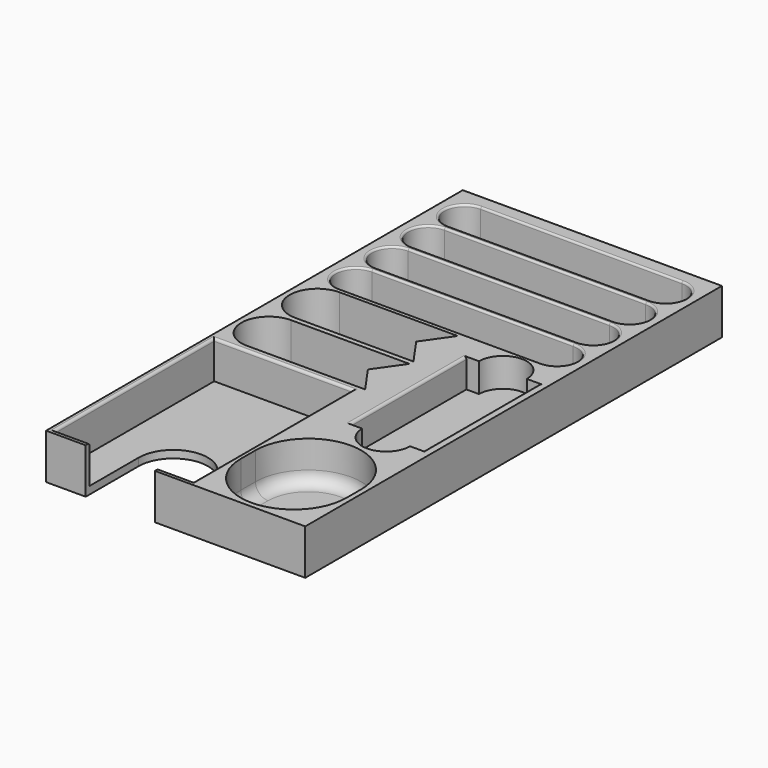
from build123d import *

# Parameters (mm, degrees)
SKETCH014_W            = 103
SKETCH014_H            = 207
PAD006_DEPTH           = 18
POCKET008_DEPTH        = 16
LINEARPATTERN_COUNT    = 4
LINEARPATTERN_PITCH    = 18
POCKET009_DEPTH        = 16
LINEARPATTERN001_COUNT = 2
LINEARPATTERN001_PITCH = 24
POCKET010_DEPTH        = 11.5
SKETCH019_W            = 55
SKETCH019_H            = 79
POCKET011_DEPTH        = 15
POCKET012_DEPTH        = 100
POCKET012_DEPTH_BACK   = 100
POCKET013_DEPTH        = 16
FILLET003_R            = 1
FILLET004_R            = 5
FILLET005_R            = 1
FILLET006_R            = 0.75


with BuildPart() as part:
    # Sketch014 → Pad006 (new body)
    with BuildSketch(Plane.XY):
        Rectangle(SKETCH014_W, SKETCH014_H)
    extrude(amount=PAD006_DEPTH)

    # Sketch015 (on Face6 of Pad006) → Pocket008 (cut)
    with BuildSketch(Plane(origin=(0, 90, 18), x_dir=(1, 0, 0), z_dir=(0, 0, 1))):
        with BuildLine():
            ThreePointArc((-40, 8), (-48, 0), (-40, -8))
            Line((-40, -8), (40, -8))
            ThreePointArc((40, -8), (48, 0), (40, 8))
            Line((-40, 8), (40, 8))
        make_face()
    pocket008 = extrude(amount=-POCKET008_DEPTH, mode=Mode.SUBTRACT)

    # LinearPattern: Pocket008 ×4
    with Locations(*[(0, -i * LINEARPATTERN_PITCH, 0) for i in range(1, LINEARPATTERN_COUNT)]):
        add(pocket008, mode=Mode.SUBTRACT)

    # Sketch017 → Pocket009 (cut)
    with BuildSketch(Plane(origin=(-15, 15, 18), x_dir=(1, 0, 0), z_dir=(0, 0, 1))):
        with BuildLine():
            Line((-23.5, 11), (23.5, 11))
            Line((23.5, 11), (15.797717, 0))
            Line((15.797717, 0), (23.5, -11))
            Line((23.5, -11), (-23.5, -11))
            ThreePointArc((-23.5, 11), (-34.5, 0), (-23.5, -11))
        make_face()
    pocket009 = extrude(amount=-POCKET009_DEPTH, mode=Mode.SUBTRACT)

    # LinearPattern001: Pocket009 ×2
    with Locations(*[(0, -i * LINEARPATTERN001_PITCH, 0) for i in range(1, LINEARPATTERN001_COUNT)]):
        add(pocket009, mode=Mode.SUBTRACT)

    # Sketch018 (on Face5 of LinearPattern001) → Pocket010 (cut)
    with BuildSketch(Plane.XY.offset(18)):
        with BuildLine():
            Line((48.255785, 16.86923), (48.255785, -41.13077))
            Line((48.255785, -41.13077), (43.255785, -41.13077))
            ThreePointArc((24.255785, -41.13077), (33.755784, -50.63077), (43.255785, -41.13077))
            Line((24.255785, -41.13077), (19.255785, -41.13077))
            Line((19.255785, -41.13077), (19.255785, 16.86923))
            Line((24.255785, 16.86923), (19.255785, 16.86923))
            ThreePointArc((43.255785, 16.86923), (33.755785, 26.36923), (24.255785, 16.86923))
            Line((43.255785, 16.86923), (48.255785, 16.86923))
        make_face()
    extrude(amount=-POCKET010_DEPTH, mode=Mode.SUBTRACT)

    # Sketch019 (on Face5 of Pocket010) → Pocket011 (cut)
    with BuildSketch(Plane.XY.offset(18)):
        with Locations((-22, -62)):
            Rectangle(SKETCH019_W, SKETCH019_H)
    extrude(amount=-POCKET011_DEPTH, mode=Mode.SUBTRACT)

    # Sketch020 (on Face46 of Pocket011) → Pocket012 (cut, two sides)
    with BuildSketch(Plane.XY.offset(3)) as pocket012_sk:
        with BuildLine():
            ThreePointArc((-35.75, -103.5), (-22, -117.25), (-8.25, -103.5))
            Line((-8.25, -103.5), (-8.25, -77.166667))
            ThreePointArc((-8.25, -77.166667), (-22, -63.416667), (-35.75, -77.166667))
            Line((-35.75, -103.5), (-35.75, -77.166667))
        make_face()
    extrude(amount=-POCKET012_DEPTH, mode=Mode.SUBTRACT)
    extrude(pocket012_sk.sketch, amount=POCKET012_DEPTH_BACK, mode=Mode.SUBTRACT)

    # Sketch021 (on Face5 of Pocket012) → Pocket013 (cut)
    with BuildSketch(Plane.XY.offset(18)):
        with BuildLine():
            ThreePointArc((7.5, -80.504131), (28.5, -101.504131), (49.5, -80.504131))
            Line((49.5, -80.504131), (49.5, -73.202981))
            ThreePointArc((49.5, -73.202981), (28.5, -52.202981), (7.5, -73.202981))
            Line((7.5, -80.504131), (7.5, -73.202981))
        make_face()
    extrude(amount=-POCKET013_DEPTH, mode=Mode.SUBTRACT)

    # Fillet003
    fillet003_edges = [part.edges().sort_by_distance(p)[0] for p in [
        (-42.625, -101.5, 18),
        (-49.5, -62, 18),
        (-22, -22.5, 18),
        (5.5, -62, 18),
        (-1.375, -101.5, 18),
    ]]
    fillet(fillet003_edges, radius=FILLET003_R)

    # Fillet004
    fillet004_edges = [part.edges().sort_by_distance(p)[0] for p in [
        (28.5, -52.202981, 2),
    ]]
    fillet(fillet004_edges, radius=FILLET004_R)

    # Fillet005
    fillet005_edges = [part.edges().sort_by_distance(p)[0] for p in [
        (48.255785, -12.13077, 18),
        (19.255785, -12.13077, 18),
    ]]
    fillet(fillet005_edges, radius=FILLET005_R)

    # Fillet006
    fillet006_edges = [part.edges().sort_by_distance(p)[0] for p in [
        (0, 80, 18),
        (-48, 72, 18),
        (0, 64, 18),
        (48, 72, 18),
        (0, 62, 18),
        (-48, 54, 18),
        (0, 46, 18),
        (48, 54, 18),
        (0, 44, 18),
        (-48, 36, 18),
        (0, 28, 18),
        (48, 36, 18),
        (0, 98, 18),
        (-48, 90, 18),
        (0, 82, 18),
        (48, 90, 18),
    ]]
    fillet(fillet006_edges, radius=FILLET006_R)


solid = part.part
